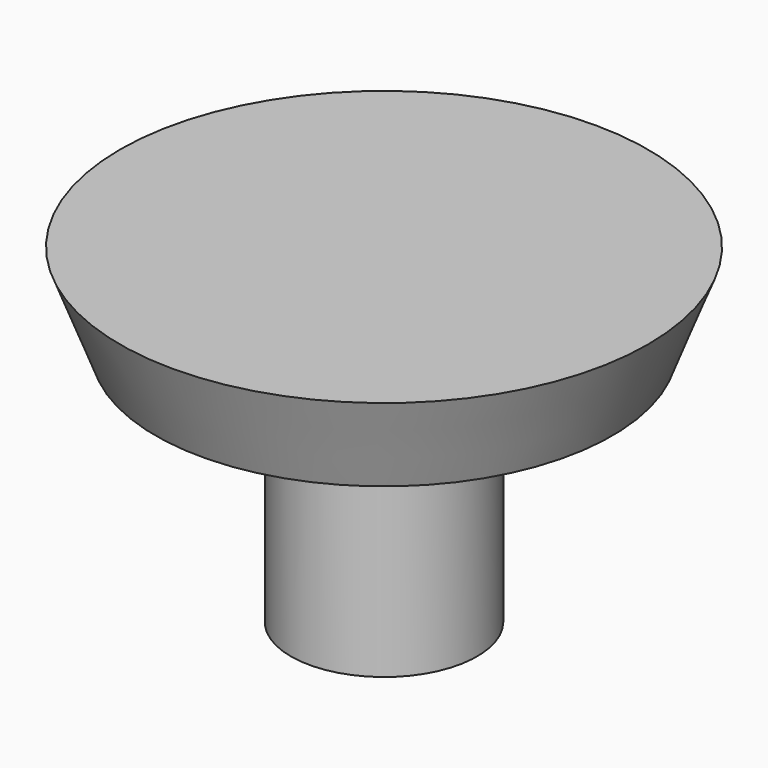
from build123d import *


with BuildPart() as f1:
    # F0 (on Front) → F1 (revolve)
    with BuildSketch(Plane.XZ):
        Polygon((-16.332356, 0), (0, 0), (0, 57.878628), (-40.035944, 57.878628), (-40.035944, 41.77035), (-16.332356, 41.77035), align=None)
        Polygon((-40.035944, 41.77035), (-40.035944, 57.878628), (-46.278343, 57.878628), align=None)
    revolve(axis=Axis((0, 0, 28.939314), (0, 0, 1)))


solid = f1.part
